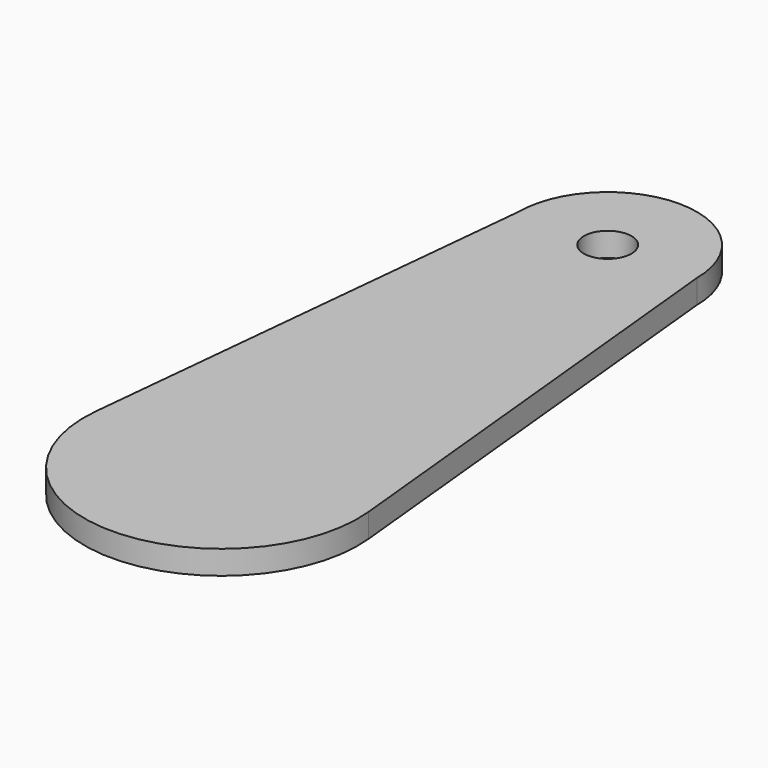
from build123d import *

# Parameters (mm, degrees)
F0_R     = 2
F1_DEPTH = 2


with BuildPart() as f1:
    # F0 (on Top) → F1 (new body)
    with BuildSketch(Plane.XY):
        with BuildLine():
            Line((-7.5, 40.559527), (-11.442887, 1.144696))
            ThreePointArc((-11.442887, 1.144696), (0, -11.5), (11.442887, 1.144696))
            Line((11.442887, 1.144696), (7.5, 40.559527))
            ThreePointArc((7.5, 40.559527), (0, 48.059527), (-7.5, 40.559527))
        make_face()
        with Locations((0, 40.559527)):
            Circle(F0_R, mode=Mode.SUBTRACT)
    extrude(amount=F1_DEPTH)


solid = f1.part
